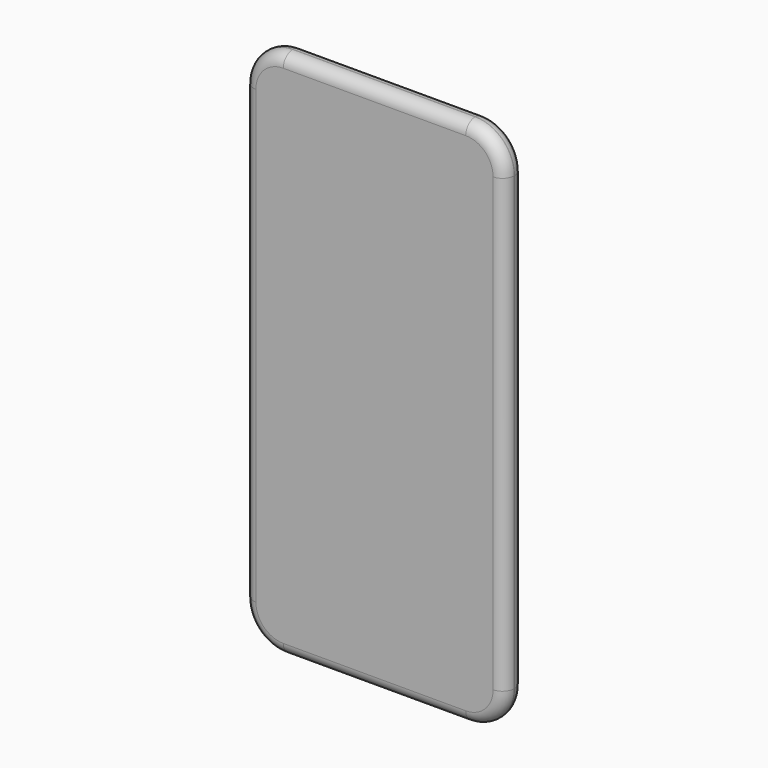
from build123d import *

# Parameters (mm, degrees)
F1_DEPTH = 7.1
F2_R     = 3.5


with BuildPart() as f1:
    # F0 (on Front) → F1 (new body)
    with BuildSketch(Plane.XZ):
        with BuildLine():
            Line((27.223458, 79.05), (-27.223458, 79.05))
            ThreePointArc((-27.223458, 79.05), (-35.48002, 75.63002), (-38.9, 67.373458))
            Line((-38.9, 67.373458), (-38.9, -67.373458))
            ThreePointArc((-38.9, -67.373458), (-35.48002, -75.63002), (-27.223458, -79.05))
            Line((-27.223458, -79.05), (27.223458, -79.05))
            ThreePointArc((27.223458, -79.05), (35.48002, -75.63002), (38.9, -67.373458))
            Line((38.9, -67.373458), (38.9, 67.373458))
            ThreePointArc((38.9, 67.373458), (35.48002, 75.63002), (27.223458, 79.05))
        make_face()
    extrude(amount=-F1_DEPTH)

    # F2
    f2_edges = [f1.edges().sort_by_distance(p)[0] for p in [
        (35.48002, 0, 75.63002),
        (0, 0, 79.05),
        (-35.48002, 0, 75.63002),
        (-38.9, 0, 0),
        (-35.48002, 0, -75.63002),
        (0, 0, -79.05),
        (35.48002, 0, -75.63002),
        (38.9, 0, 0),
        (35.48002, 7.1, 75.63002),
        (0, 7.1, 79.05),
        (-35.48002, 7.1, 75.63002),
        (-38.9, 7.1, 0),
        (-35.48002, 7.1, -75.63002),
        (0, 7.1, -79.05),
        (35.48002, 7.1, -75.63002),
        (38.9, 7.1, 0),
    ]]
    fillet(f2_edges, radius=F2_R)


solid = f1.part
